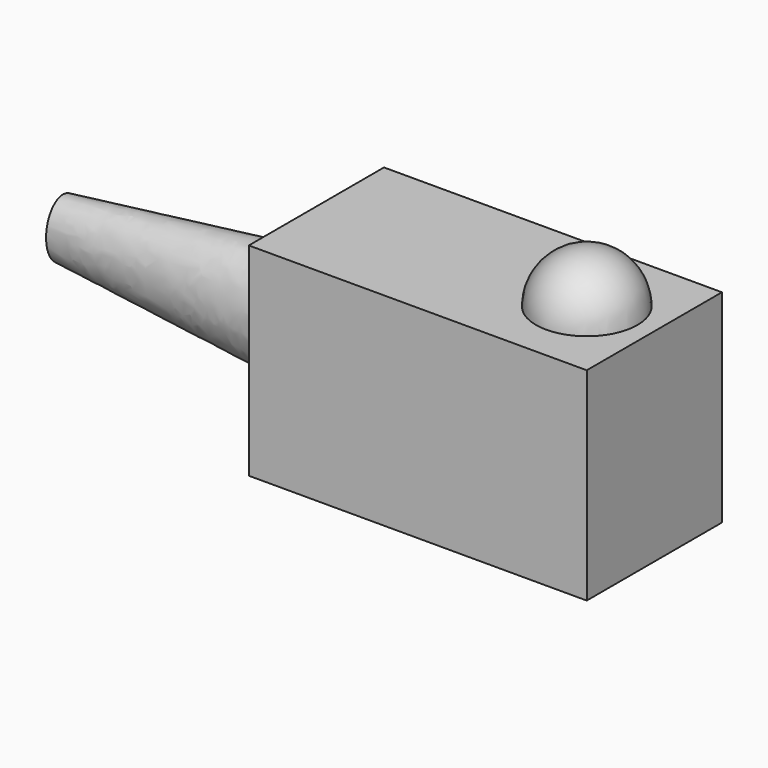
from build123d import *

# Parameters (mm, degrees)
F0_W     = 200
F0_H     = 100
F1_DEPTH = 120


with BuildPart() as f1:
    # F0 (on Top) → F1 (new body)
    with BuildSketch(Plane.XY):
        Rectangle(F0_W, F0_H)
    extrude(amount=F1_DEPTH)

    # F2 (on face) → F3 (revolve)
    with BuildSketch(Plane.XY.offset(120)):
        with BuildLine():
            Line((60, 30), (60, -30))
            ThreePointArc((60, -30), (90, 0), (60, 30))
        make_face()
    revolve(axis=Axis((60, 0, 120), (0, -1, 0)))

    # F4 (on face) → F7 section 0
    with BuildSketch(Plane(origin=(-100, 0, 0), x_dir=(0, -1, 0), z_dir=(-1, 0, 0))):
        with BuildLine():
            add(Edge.make_bspline(
                [(0, 25), (43.30127, 25), (21.650635, 77.5), (0, 130), (-21.650635, 77.5), (-43.30127, 25), (0, 25)],
                knots=[0, 0, 0, 2.094395, 2.094395, 4.18879, 4.18879, 6.283185, 6.283185, 6.283185], degree=2, weights=[1, 0.5, 1, 0.5, 1, 0.5, 1]))
        make_face()
    # F6 (on offset) → F7 section 1
    with BuildSketch(Plane.YZ.offset(-250)):
        with BuildLine():
            add(Edge.make_bspline(
                [(0, 42.5), (21.650635, 42.5), (10.825318, 68.75), (0, 95), (-10.825318, 68.75), (-21.650635, 42.5), (0, 42.5)],
                knots=[0, 0, 0, 2.094395, 2.094395, 4.18879, 4.18879, 6.283185, 6.283185, 6.283185], degree=2, weights=[1, 0.5, 1, 0.5, 1, 0.5, 1]))
        make_face()
    loft()


solid = f1.part
